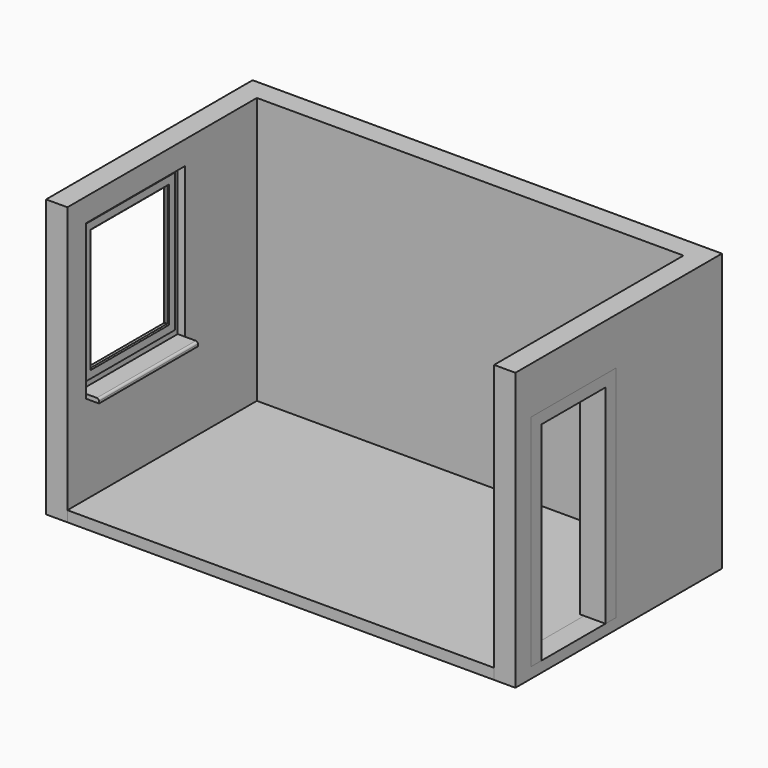
from build123d import *

# Parameters (mm, degrees)
F0_W           = 4000
F0_H           = 2220
F1_DEPTH       = 100
F3_DEPTH       = 2500
F3_DEPTH_BACK  = 100
F4_W           = 1160
F4_H           = 1450
F5_DEPTH       = 200
F6_W           = 1000
F6_H           = 2060
F7_DEPTH       = 200
F9_DEPTH       = 240
F11_START      = -70
F10_W          = 1160
F10_H          = 1450
F10_W_2        = 1020
F10_H_2        = 1260
F11_DEPTH      = 60
F12_W          = 1060
F12_H          = 1300
F12_W_2        = 900
F12_H_2        = 1140
F13_DEPTH      = 16
F13_DEPTH_BACK = 20
F14_SIZE       = 10
F15_W          = 1160
F15_H          = 40
F16_DEPTH      = 190
F17_R          = 20


with BuildPart() as f1:
    # F0 (on Top) → F1 (new body)
    with BuildSketch(Plane.XY):
        Rectangle(F0_W, F0_H)
    extrude(amount=-F1_DEPTH)


with BuildPart() as f3:
    # F2 (on face) → F3 (new body, two sides)
    with BuildSketch(Plane.XY) as f3_sk:
        Polygon((-2200, -1110), (-2000, -1110), (-2000, 1110), (2000, 1110), (2000, -1110), (2200, -1110), (2200, 1310), (-2200, 1310), align=None)
    extrude(amount=F3_DEPTH)
    extrude(f3_sk.sketch, amount=-F3_DEPTH_BACK)

    # F4 (on face) → F5 (cut, through all)
    with BuildSketch(Plane.YZ.offset(-2000)):
        with Locations((-310, 1555)):
            Rectangle(F4_W, F4_H)
    extrude(amount=-F5_DEPTH, mode=Mode.SUBTRACT)

    # F6 (on face) → F7 (cut, through all)
    with BuildSketch(Plane.YZ.offset(2200)):
        with Locations((-430, 1030)):
            Rectangle(F6_W, F6_H)
    extrude(amount=-F7_DEPTH, mode=Mode.SUBTRACT)


with BuildPart() as f9:
    # F8 (on face) → F9 (new body)
    with BuildSketch(Plane.YZ.offset(2200)):
        Polygon((70, 2060), (-930, 2060), (-930, 0), (-805, 0), (-805, 1950), (-55, 1950), (-55, 0), (70, 0), align=None)
    extrude(amount=-F9_DEPTH)


with BuildPart() as f11:
    # F10 (on face) → F11 (new body)
    with BuildSketch(Plane(origin=(-2200, 0, 0), x_dir=(0, -1, 0), z_dir=(-1, 0, 0)).offset(F11_START)):
        with Locations((310, 1555)):
            Rectangle(F10_W, F10_H)
        with Locations((310, 1580)):
            Rectangle(F10_W_2, F10_H_2, mode=Mode.SUBTRACT)
    extrude(amount=-F11_DEPTH)

    # F12 (on face) → F13 (join, two sides)
    with BuildSketch(Plane.YZ.offset(-2070)) as f13_sk:
        with Locations((-310, 1580)):
            Rectangle(F12_W, F12_H)
        with Locations((-310, 1580)):
            Rectangle(F12_W_2, F12_H_2, mode=Mode.SUBTRACT)
    extrude(amount=F13_DEPTH)
    extrude(f13_sk.sketch, amount=-F13_DEPTH_BACK)

    # F14
    f14_edges = [f11.edges().sort_by_distance(p)[0] for p in [
        (-2054, 140, 1580),
        (-2054, -310, 1010),
        (-2054, -760, 1580),
        (-2054, -310, 2150),
    ]]
    chamfer(f14_edges, length=F14_SIZE)


with BuildPart() as f16:
    # F15 (on face) → F16 (new body)
    with BuildSketch(Plane.YZ.offset(-2070)):
        with Locations((-310, 850)):
            Rectangle(F15_W, F15_H)
    extrude(amount=F16_DEPTH)

    # F17
    f17_edges = [f16.edges().sort_by_distance(p)[0] for p in [
        (-1880, -310, 870),
    ]]
    fillet(f17_edges, radius=F17_R)


solid = Compound([f1.part, f3.part, f9.part, f11.part, f16.part])
